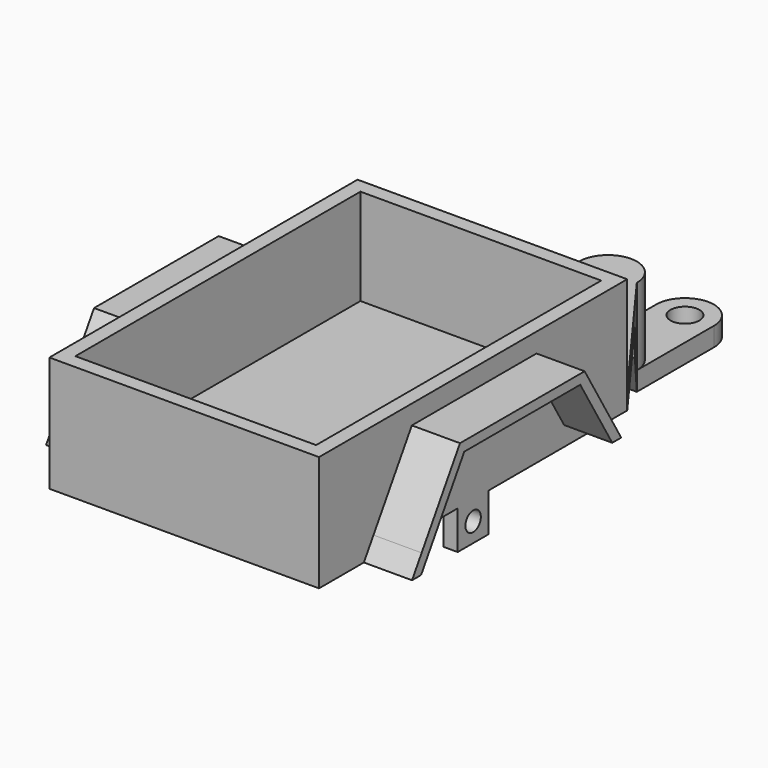
from build123d import *

# Parameters (mm, degrees)
F0_W      = 1.5
F0_H      = 2
F0_H_2    = 12
F0_W_2    = 25
F0_H_3    = 16.5
F1_DEPTH  = 2
F2_DEPTH  = 12
F3_DEPTH  = 4
F4_DEPTH  = 7.97
F5_DEPTH  = 6
F6_SIZE2  = 5
F6_SIZE   = 3
F7_R      = 1
F8_DEPTH  = 15
F9_DEPTH  = 19
F10_DEPTH = 12.5


with BuildPart() as f1:
    # F0 (on Top) → F1 (new body)
    with BuildSketch(Plane.XY):
        Polygon((-5.2, 36.80300952), (-14, 24.80300952), (-12.5, 24.80300952), (-3.7, 36.80300952), align=None)
        Polygon((14, 24.80300952), (5.2, 36.80300952), (3.7, 36.80300952), (12.5, 24.80300952), align=None)
        Polygon((-12.5, 2.80300952), (-14, 2.80300952), (-14, -15.19699048), (14, -15.19699048), (14, 2.80300952), (12.5, 2.80300952), (12.5, -13.69699048), (-12.5, -13.69699048), align=None)
        with Locations((-13.25, 5.80300952)):
            Rectangle(F0_W, F0_H)
        with Locations((-13.25, 3.80300952)):
            Rectangle(F0_W, F0_H)
        with Locations((13.25, 5.80300952)):
            Rectangle(F0_W, F0_H)
        with Locations((13.25, 3.80300952)):
            Rectangle(F0_W, F0_H)
        with BuildLine():
            Line((-3, 39.80300952), (-5.2, 36.80300952))
            Line((-5.2, 36.80300952), (-3.7, 36.80300952))
            Line((-3.7, 36.80300952), (-1.5, 36.80300952))
            Line((-1.5, 36.80300952), (0, 36.80300952))
            Line((0, 36.80300952), (0, 38.30300952))
            ThreePointArc((0, 38.30300952), (-1.0606601718, 38.7423493483), (-1.5, 39.80300952))
            Line((-1.5, 39.80300952), (-3, 39.80300952))
        make_face()
        with BuildLine():
            Line((5.2, 36.80300952), (3, 39.80300952))
            Line((3, 39.80300952), (1.5, 39.80300952))
            ThreePointArc((1.5, 39.80300952), (1.0606601718, 38.7423493483), (0, 38.30300952))
            Line((0, 38.30300952), (0, 36.80300952))
            Line((0, 36.80300952), (1.5, 36.80300952))
            Line((1.5, 36.80300952), (3.7, 36.80300952))
            Line((3.7, 36.80300952), (5.2, 36.80300952))
        make_face()
        Polygon((-12.5, 24.80300952), (-14, 24.80300952), (-14, 6.80300952), (-12.5, 6.80300952), (-12.5, 23.30300952), (12.5, 23.30300952), (12.5, 6.80300952), (14, 6.80300952), (14, 24.80300952), (12.5, 24.80300952), (1.5, 24.80300952), (0, 24.80300952), (-1.5, 24.80300952), align=None)
        with Locations((0.75, 30.80300952)):
            Rectangle(F0_W, F0_H_2)
        with Locations((-0.75, 30.80300952)):
            Rectangle(F0_W, F0_H_2)
        with BuildLine():
            ThreePointArc((0, 38.30300952), (1.0606601718, 38.7423493483), (1.5, 39.80300952))
            Line((1.5, 39.80300952), (0, 39.80300952))
            Line((0, 39.80300952), (0, 38.30300952))
        make_face()
        with BuildLine():
            Line((0, 39.80300952), (-1.5, 39.80300952))
            ThreePointArc((-1.5, 39.80300952), (-1.0606601718, 38.7423493483), (0, 38.30300952))
            Line((0, 38.30300952), (0, 39.80300952))
        make_face()
        with Locations((0, 15.05300952)):
            Rectangle(F0_W_2, F0_H_3)
        with Locations((0, -5.44699048)):
            Rectangle(F0_W_2, F0_H_3)
        with Locations((0, 3.80300952)):
            Rectangle(F0_W_2, F0_H)
        with Locations((0, 5.80300952)):
            Rectangle(F0_W_2, F0_H)
        with BuildLine():
            ThreePointArc((3, 39.80300952), (0, 42.80300952), (-3, 39.80300952))
            Line((-3, 39.80300952), (-1.5, 39.80300952))
            ThreePointArc((-1.5, 39.80300952), (0, 41.30300952), (1.5, 39.80300952))
            Line((1.5, 39.80300952), (3, 39.80300952))
        make_face()
        with BuildLine():
            ThreePointArc((1.5, 39.80300952), (0, 41.30300952), (-1.5, 39.80300952))
            Line((-1.5, 39.80300952), (0, 39.80300952))
            Line((0, 39.80300952), (1.5, 39.80300952))
        make_face()
    extrude(amount=F1_DEPTH)

    # F0 (on Top) → F2 (join)
    with BuildSketch(Plane.XY):
        Polygon((-12.5, 2.80300952), (-14, 2.80300952), (-14, -15.19699048), (14, -15.19699048), (14, 2.80300952), (12.5, 2.80300952), (12.5, -13.69699048), (-12.5, -13.69699048), align=None)
        Polygon((-12.5, 24.80300952), (-14, 24.80300952), (-14, 6.80300952), (-12.5, 6.80300952), (-12.5, 23.30300952), (12.5, 23.30300952), (12.5, 6.80300952), (14, 6.80300952), (14, 24.80300952), (12.5, 24.80300952), (1.5, 24.80300952), (0, 24.80300952), (-1.5, 24.80300952), align=None)
        with Locations((13.25, 5.80300952)):
            Rectangle(F0_W, F0_H)
        with Locations((13.25, 3.80300952)):
            Rectangle(F0_W, F0_H)
        with Locations((-13.25, 3.80300952)):
            Rectangle(F0_W, F0_H)
        with Locations((-13.25, 5.80300952)):
            Rectangle(F0_W, F0_H)
    extrude(amount=F2_DEPTH)

    # F0 (on Top) → F3 (join)
    with BuildSketch(Plane.XY):
        with Locations((13.25, 5.80300952)):
            Rectangle(F0_W, F0_H)
        with Locations((13.25, 3.80300952)):
            Rectangle(F0_W, F0_H)
        with Locations((-13.25, 3.80300952)):
            Rectangle(F0_W, F0_H)
        with Locations((-13.25, 5.80300952)):
            Rectangle(F0_W, F0_H)
    extrude(amount=-F3_DEPTH)

    # F0 (on Top) → F4 (join)
    with BuildSketch(Plane.XY):
        with BuildLine():
            ThreePointArc((3, 39.80300952), (0, 42.80300952), (-3, 39.80300952))
            Line((-3, 39.80300952), (-1.5, 39.80300952))
            ThreePointArc((-1.5, 39.80300952), (0, 41.30300952), (1.5, 39.80300952))
            Line((1.5, 39.80300952), (3, 39.80300952))
        make_face()
        with BuildLine():
            ThreePointArc((1.5, 39.80300952), (0, 41.30300952), (-1.5, 39.80300952))
            Line((-1.5, 39.80300952), (0, 39.80300952))
            Line((0, 39.80300952), (1.5, 39.80300952))
        make_face()
        with BuildLine():
            Line((5.2, 36.80300952), (3, 39.80300952))
            Line((3, 39.80300952), (1.5, 39.80300952))
            ThreePointArc((1.5, 39.80300952), (1.0606601718, 38.7423493483), (0, 38.30300952))
            Line((0, 38.30300952), (0, 36.80300952))
            Line((0, 36.80300952), (1.5, 36.80300952))
            Line((1.5, 36.80300952), (3.7, 36.80300952))
            Line((3.7, 36.80300952), (5.2, 36.80300952))
        make_face()
        with BuildLine():
            Line((-3, 39.80300952), (-5.2, 36.80300952))
            Line((-5.2, 36.80300952), (-3.7, 36.80300952))
            Line((-3.7, 36.80300952), (-1.5, 36.80300952))
            Line((-1.5, 36.80300952), (0, 36.80300952))
            Line((0, 36.80300952), (0, 38.30300952))
            ThreePointArc((0, 38.30300952), (-1.0606601718, 38.7423493483), (-1.5, 39.80300952))
            Line((-1.5, 39.80300952), (-3, 39.80300952))
        make_face()
        with BuildLine():
            Line((-3, 49.80300952), (-3, 39.80300952))
            ThreePointArc((-3, 39.80300952), (0, 42.80300952), (3, 39.80300952))
            Line((3, 39.80300952), (3, 49.80300952))
            Line((3, 49.80300952), (1.5, 49.80300952))
            ThreePointArc((1.5, 49.80300952), (0, 48.30300952), (-1.5, 49.80300952))
            Line((-1.5, 49.80300952), (-3, 49.80300952))
        make_face()
        with BuildLine():
            ThreePointArc((3, 49.80300952), (0, 52.80300952), (-3, 49.80300952))
            Line((-3, 49.80300952), (-1.5, 49.80300952))
            ThreePointArc((-1.5, 49.80300952), (0, 51.30300952), (1.5, 49.80300952))
            Line((1.5, 49.80300952), (3, 49.80300952))
        make_face()
        with BuildLine():
            Line((0, 39.80300952), (-1.5, 39.80300952))
            ThreePointArc((-1.5, 39.80300952), (-1.0606601718, 38.7423493483), (0, 38.30300952))
            Line((0, 38.30300952), (0, 39.80300952))
        make_face()
        with BuildLine():
            ThreePointArc((0, 38.30300952), (1.0606601718, 38.7423493483), (1.5, 39.80300952))
            Line((1.5, 39.80300952), (0, 39.80300952))
            Line((0, 39.80300952), (0, 38.30300952))
        make_face()
    extrude(amount=-F4_DEPTH)

    # F0 (on Top) → F5 (cut)
    with BuildSketch(Plane.XY):
        with BuildLine():
            Line((-3, 49.80300952), (-3, 39.80300952))
            ThreePointArc((-3, 39.80300952), (0, 42.80300952), (3, 39.80300952))
            Line((3, 39.80300952), (3, 49.80300952))
            Line((3, 49.80300952), (1.5, 49.80300952))
            ThreePointArc((1.5, 49.80300952), (0, 48.30300952), (-1.5, 49.80300952))
            Line((-1.5, 49.80300952), (-3, 49.80300952))
        make_face()
        with BuildLine():
            ThreePointArc((3, 49.80300952), (0, 52.80300952), (-3, 49.80300952))
            Line((-3, 49.80300952), (-1.5, 49.80300952))
            ThreePointArc((-1.5, 49.80300952), (0, 51.30300952), (1.5, 49.80300952))
            Line((1.5, 49.80300952), (3, 49.80300952))
        make_face()
    extrude(amount=-F5_DEPTH, mode=Mode.SUBTRACT)

    # F6
    f6_edges = [f1.edges().sort_by_distance(p)[0] for p in [
        (0, 36.80301, -7.97),
    ]]
    f6_side = f1.faces().sort_by_distance((0, 43.604594, -7.97))[0]
    chamfer(f6_edges, length=F6_SIZE, length2=F6_SIZE2, reference=f6_side)

    # F7 (on Right) → F8 (cut, symmetric)
    with BuildSketch(Plane.YZ):
        with Locations((4.80300952, -2)):
            Circle(F7_R)
    extrude(amount=F8_DEPTH, both=True, mode=Mode.SUBTRACT)

    # F7 (on Right) → F9 (join, symmetric)
    with BuildSketch(Plane.YZ):
        Polygon((-9.3749196136, 0), (-8.19699048, 0), (-6.9519731405, 2), (-8.1299022741, 2), align=None)
        Polygon((-8.1299022741, 2), (-6.9519731405, 2), (-2.5944124523, 9), (12.4597597892, 9), (16.615620691, 2), (17.7785794425, 2), (13.0290241263, 10), (-3.1498329163, 10), align=None)
        Polygon((-8.1299022741, 2), (-6.9519731405, 2), (-2.5944124523, 9), (12.4597597892, 9), (16.615620691, 2), (17.7785794425, 2), (13.0290241263, 10), (-3.1498329163, 10), align=None)
    extrude(amount=F9_DEPTH, both=True)

    # F7 (on Right) → F10 (cut, symmetric)
    with BuildSketch(Plane.YZ):
        Polygon((-8.1299022741, 2), (-6.9519731405, 2), (-2.5944124523, 9), (12.4597597892, 9), (16.615620691, 2), (17.7785794425, 2), (13.0290241263, 10), (-3.1498329163, 10), align=None)
    extrude(amount=F10_DEPTH, both=True, mode=Mode.SUBTRACT)


solid = f1.part
